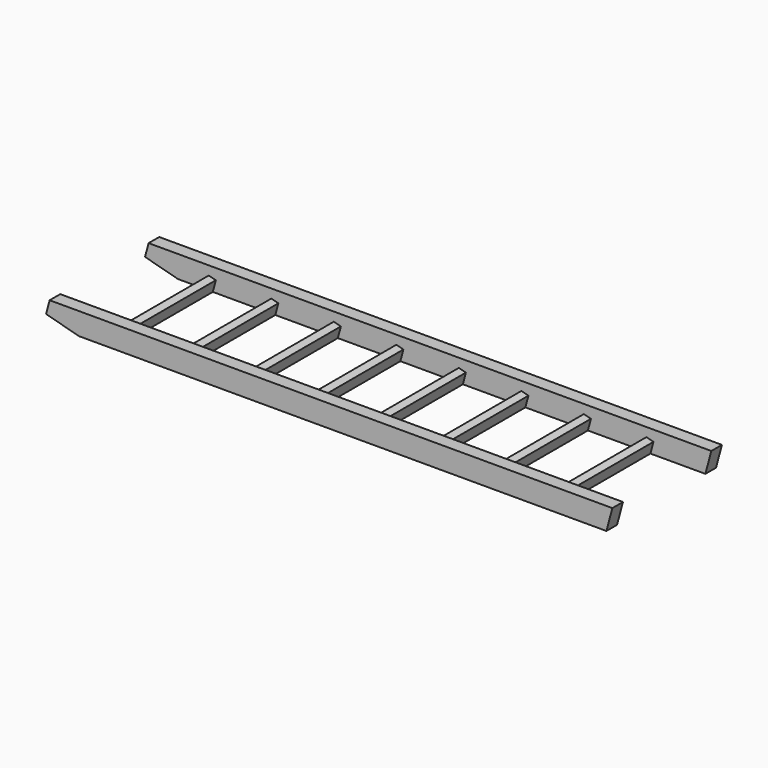
from build123d import *

# Parameters (mm, degrees)
F1_DEPTH      = 60
F3_DEPTH      = 25
F4_DEPTH      = 525
F4_DEPTH_BACK = 25


with BuildPart() as f1:
    # F0 (on Front) → F1 (new body)
    with BuildSketch(Plane.XZ):
        Polygon((-650.1048717935, 39.8228210222), (-501.484080438, 0), (1886.515919562, 0), (1913.3108388051, 100), (-633.9804452836, 100), align=None)
    extrude(amount=F1_DEPTH)

    # F2 (on face) → F3 (cut)
    with BuildSketch(Plane.XZ.offset(60)):
        Polygon((1888.804481248, 8.5410284884), (1886.515919562, 0), (1920.6800335156, 0), align=None)
        Polygon((1888.804481248, 8.5410284884), (1920.6800335156, 0), (1934.397442906, 51.1940687933), (1902.5218906384, 59.7350972817), align=None)
        Polygon((1637.6800335156, 0), (1651.397442906, 51.1940687933), (1619.5218906384, 59.7350972817), (1605.804481248, 8.5410284884), align=None)
        Polygon((1603.515919562, 0), (1637.6800335156, 0), (1605.804481248, 8.5410284884), align=None)
        Polygon((1354.6800335156, 0), (1368.397442906, 51.1940687933), (1336.5218906384, 59.7350972817), (1322.804481248, 8.5410284884), align=None)
        Polygon((1320.515919562, 0), (1354.6800335156, 0), (1322.804481248, 8.5410284884), align=None)
        Polygon((1071.6800335156, 0), (1085.397442906, 51.1940687933), (1053.5218906384, 59.7350972817), (1039.804481248, 8.5410284884), align=None)
        Polygon((1037.515919562, 0), (1071.6800335156, 0), (1039.804481248, 8.5410284884), align=None)
        Polygon((788.6800335156, 0), (802.397442906, 51.1940687933), (770.5218906384, 59.7350972817), (756.804481248, 8.5410284884), align=None)
        Polygon((754.515919562, 0), (788.6800335156, 0), (756.804481248, 8.5410284884), align=None)
        Polygon((505.6800335156, 0), (519.397442906, 51.1940687933), (487.5218906384, 59.7350972817), (473.804481248, 8.5410284884), align=None)
        Polygon((471.515919562, 0), (505.6800335156, 0), (473.804481248, 8.5410284884), align=None)
        Polygon((222.6800335156, 0), (236.397442906, 51.1940687933), (204.5218906384, 59.7350972817), (190.804481248, 8.5410284884), align=None)
        Polygon((188.515919562, 0), (222.6800335156, 0), (190.804481248, 8.5410284884), align=None)
        Polygon((-60.3199664844, 0), (-46.602557094, 51.1940687933), (-78.4781093616, 59.7350972817), (-92.195518752, 8.5410284884), align=None)
        Polygon((-94.484080438, 0), (-60.3199664844, 0), (-92.195518752, 8.5410284884), align=None)
        Polygon((-343.3199664844, 0), (-329.602557094, 51.1940687933), (-361.4781093616, 59.7350972817), (-375.195518752, 8.5410284884), align=None)
        Polygon((-377.484080438, 0), (-343.3199664844, 0), (-375.195518752, 8.5410284884), align=None)
    extrude(amount=-F3_DEPTH, mode=Mode.SUBTRACT)


with BuildPart() as f4:
    # F2 (on face) → F4 (new body, two sides)
    with BuildSketch(Plane.XZ.offset(60)) as f4_sk:
        Polygon((1605.804481248, 8.5410284884), (1637.6800335156, 0), (1651.397442906, 51.1940687933), (1619.5218906384, 59.7350972817), align=None)
    extrude(amount=F4_DEPTH)
    extrude(f4_sk.sketch, amount=-F4_DEPTH_BACK)


with BuildPart() as f4b:
    # F2 (on face) → F4, piece 2 (new body, two sides)
    with BuildSketch(Plane.XZ.offset(60)) as f4_2_sk:
        Polygon((1322.804481248, 8.5410284884), (1354.6800335156, 0), (1368.397442906, 51.1940687933), (1336.5218906384, 59.7350972817), align=None)
    extrude(amount=F4_DEPTH)
    extrude(f4_2_sk.sketch, amount=-F4_DEPTH_BACK)


with BuildPart() as f4c:
    # F2 (on face) → F4, piece 3 (new body, two sides)
    with BuildSketch(Plane.XZ.offset(60)) as f4_3_sk:
        Polygon((1039.804481248, 8.5410284884), (1071.6800335156, 0), (1085.397442906, 51.1940687933), (1053.5218906384, 59.7350972817), align=None)
    extrude(amount=F4_DEPTH)
    extrude(f4_3_sk.sketch, amount=-F4_DEPTH_BACK)


with BuildPart() as f4d:
    # F2 (on face) → F4, piece 4 (new body, two sides)
    with BuildSketch(Plane.XZ.offset(60)) as f4_4_sk:
        Polygon((756.804481248, 8.5410284884), (788.6800335156, 0), (802.397442906, 51.1940687933), (770.5218906384, 59.7350972817), align=None)
    extrude(amount=F4_DEPTH)
    extrude(f4_4_sk.sketch, amount=-F4_DEPTH_BACK)


with BuildPart() as f4e:
    # F2 (on face) → F4, piece 5 (new body, two sides)
    with BuildSketch(Plane.XZ.offset(60)) as f4_5_sk:
        Polygon((473.804481248, 8.5410284884), (505.6800335156, 0), (519.397442906, 51.1940687933), (487.5218906384, 59.7350972817), align=None)
    extrude(amount=F4_DEPTH)
    extrude(f4_5_sk.sketch, amount=-F4_DEPTH_BACK)


with BuildPart() as f4f:
    # F2 (on face) → F4, piece 6 (new body, two sides)
    with BuildSketch(Plane.XZ.offset(60)) as f4_6_sk:
        Polygon((190.804481248, 8.5410284884), (222.6800335156, 0), (236.397442906, 51.1940687933), (204.5218906384, 59.7350972817), align=None)
    extrude(amount=F4_DEPTH)
    extrude(f4_6_sk.sketch, amount=-F4_DEPTH_BACK)


with BuildPart() as f4g:
    # F2 (on face) → F4, piece 7 (new body, two sides)
    with BuildSketch(Plane.XZ.offset(60)) as f4_7_sk:
        Polygon((-78.4781093616, 59.7350972817), (-92.195518752, 8.5410284884), (-60.3199664844, 0), (-46.602557094, 51.1940687933), align=None)
    extrude(amount=F4_DEPTH)
    extrude(f4_7_sk.sketch, amount=-F4_DEPTH_BACK)


with BuildPart() as f4h:
    # F2 (on face) → F4, piece 8 (new body, two sides)
    with BuildSketch(Plane.XZ.offset(60)) as f4_8_sk:
        Polygon((-361.4781093616, 59.7350972817), (-375.195518752, 8.5410284884), (-343.3199664844, 0), (-329.602557094, 51.1940687933), align=None)
    extrude(amount=F4_DEPTH)
    extrude(f4_8_sk.sketch, amount=-F4_DEPTH_BACK)


with BuildPart() as f5_1:
    # F5: instance of F1
    add(f1.part.mirror(Plane.XZ.offset(60)))


with BuildPart() as f5_1_1:
    # F6: moved
    add(f5_1.part.moved(Location((0, -500, 0))))


solid = Compound([f1.part, f4.part, f4b.part, f4c.part, f4d.part, f4e.part, f4f.part, f4g.part, f4h.part, f5_1_1.part])
